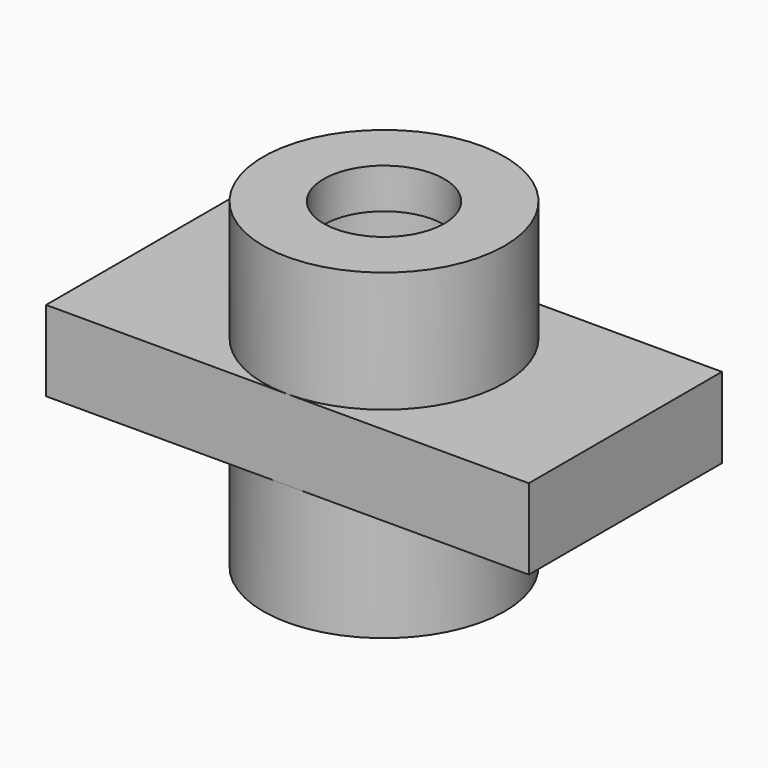
from build123d import *

# Parameters (mm, degrees)
F0_R     = 19.05
F0_R_2   = 9.525
F1_DEPTH = 25.4
F2_W     = 76.2
F2_H     = 38.1
F2_R     = 9.525
F3_DEPTH = 6.35
F4_DEPTH = 25.401
F5_W     = 12.7
F5_H     = 6.35


with BuildPart() as f1:
    # F0 (on Top) → F1 (new body, symmetric)
    with BuildSketch(Plane.XY):
        Circle(F0_R)
        Circle(F0_R_2, mode=Mode.SUBTRACT)
    extrude(amount=F1_DEPTH, both=True)

    # F2 (on Top) → F3 (join, symmetric)
    with BuildSketch(Plane.XY):
        Rectangle(F2_W, F2_H)
        Circle(F2_R, mode=Mode.SUBTRACT)
    extrude(amount=F3_DEPTH, both=True)

    # F2 (on Top) → F4 (cut, through all)
    with BuildSketch(Plane.XY):
        Circle(F2_R)
    extrude(amount=-F4_DEPTH, mode=Mode.SUBTRACT)

    # F5 (on Front) → F6 (revolve, cut)
    with BuildSketch(Plane.XZ):
        with Locations((-6.35, 15.875)):
            Rectangle(F5_W, F5_H)
    revolve(axis=Axis((0, 0, 0.9809378535), (0, 0, -1)), mode=Mode.SUBTRACT)


solid = f1.part
